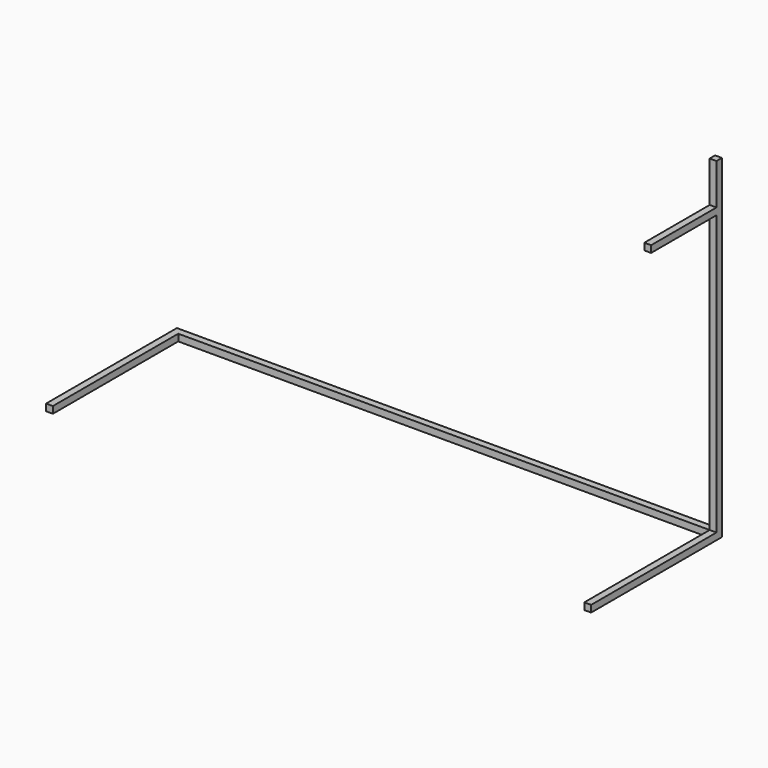
from build123d import *

# Parameters (mm, degrees)
F1_DEPTH = 38.1
F3_DEPTH = 38.1
F2_W     = 457.2
F2_H     = 38.1
F4_DEPTH = 38.1


with BuildPart() as f1:
    # F0 (on Top) → F1 (new body)
    with BuildSketch(Plane.XY):
        Polygon((1524, -457.2), (1524, 457.2), (-1524, 457.2), (-1524, -457.2), (-1485.9, -457.2), (-1485.9, 419.1), (1485.9, 419.1), (1485.9, -457.2), align=None)
    extrude(amount=F1_DEPTH)

    # F2 (on face) → F3 (join)
    with BuildSketch(Plane.YZ.offset(1524)):
        Polygon((419.1, 38.1), (457.2, 38.1), (457.2, 1866.9), (419.1, 1866.9), (419.1, 1638.3), (419.1, 1600.2), align=None)
    extrude(amount=-F3_DEPTH)

    # F2 (on face) → F4 (join)
    with BuildSketch(Plane.YZ.offset(1524)):
        with Locations((190.5, 1619.25)):
            Rectangle(F2_W, F2_H)
    extrude(amount=-F4_DEPTH)


solid = f1.part
